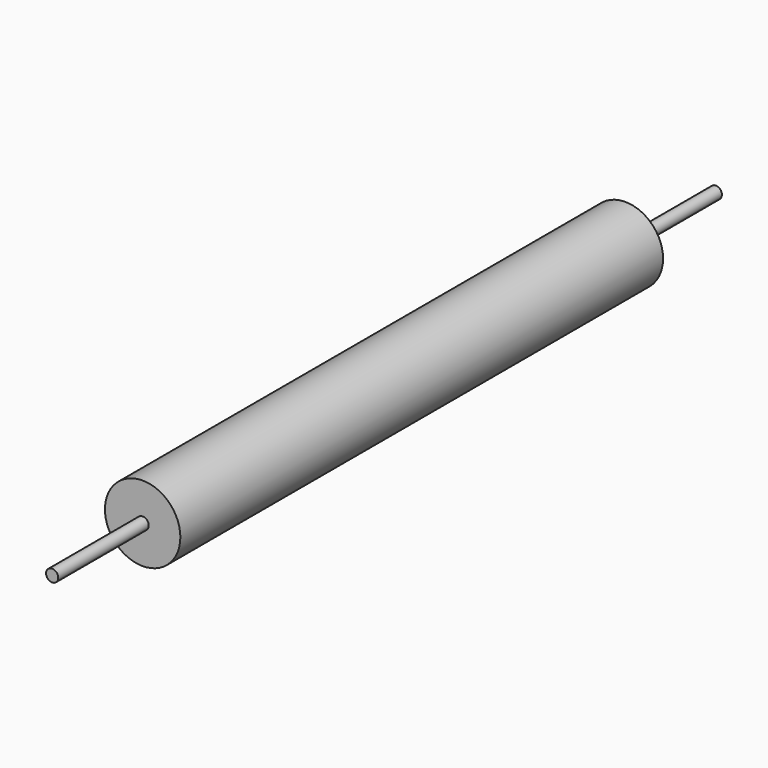
from build123d import *

# Parameters (mm, degrees)
F2_R     = 3.175
F5_DEPTH = 50.8
F3_R     = 0.51181
F6_DEPTH = 9.525
F4_R     = 0.51181
F7_DEPTH = 60.325


with BuildPart() as f5:
    # F2 (on Front) → F5 (new body)
    with BuildSketch(Plane.XZ):
        Circle(F2_R)
    extrude(amount=F5_DEPTH)

    # F3 (on Front) → F6 (join)
    with BuildSketch(Plane.XZ):
        Circle(F3_R)
    extrude(amount=-F6_DEPTH)

    # F4 (on Front) → F7 (join)
    with BuildSketch(Plane.XZ):
        Circle(F4_R)
    extrude(amount=F7_DEPTH)


solid = f5.part
